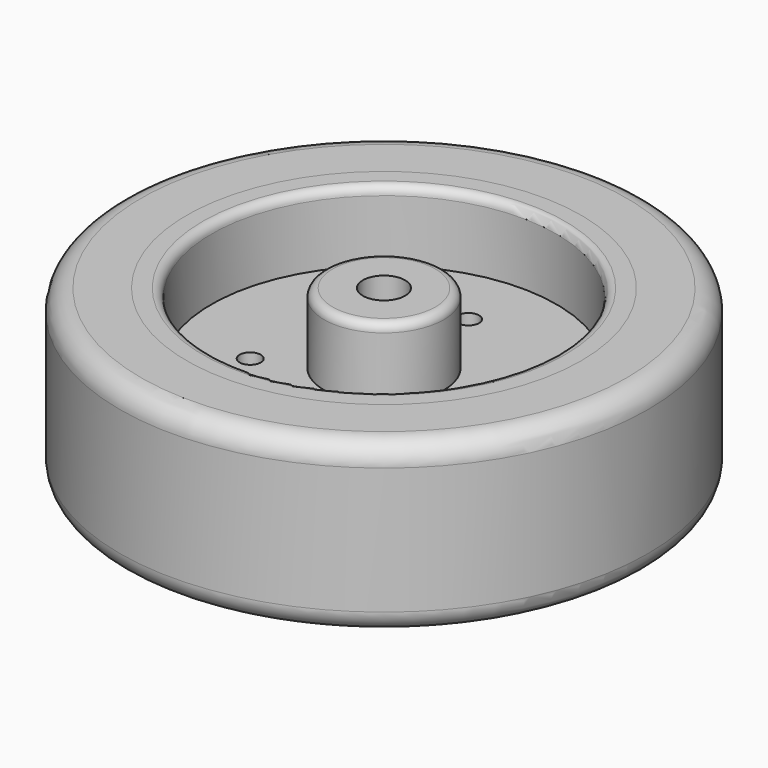
from build123d import *

# Parameters (mm, degrees)
SKETCH_R           = 28
SKETCH_R_2         = 3
PAD_DEPTH          = 12
SKETCH001_R        = 24.5
SKETCH001_R_2      = 8.5
POCKET_DEPTH       = 10
FILLET_R           = 1.2
SKETCH003_R        = 1.5
POCKET001_DEPTH    = 2
POLARPATTERN_COUNT = 3
SKETCH002_R        = 37.5
SKETCH002_R_2      = 28
PAD001_DEPTH       = 12
FILLET001_R        = 3


with BuildPart() as body:
    # Sketch → Pad (new body, symmetric)
    with BuildSketch(Plane.XY):
        Circle(SKETCH_R)
        Circle(SKETCH_R_2, mode=Mode.SUBTRACT)
    extrude(amount=PAD_DEPTH, both=True)

    # Sketch001 (on Face4 of Pad) → Pocket (cut)
    with BuildSketch(Plane.XY.offset(12)):
        Circle(SKETCH001_R)
        Circle(SKETCH001_R_2, mode=Mode.SUBTRACT)
    pocket = extrude(amount=-POCKET_DEPTH, mode=Mode.SUBTRACT)

    # Mirrored: Pocket across XY
    add(pocket.mirror(Plane.XY), mode=Mode.SUBTRACT)

    # Fillet
    fillet_edges = [body.edges().sort_by_distance(p)[0] for p in [
        (-8.5, 0, 12),
        (-8.5, 0, -12),
        (-24.5, 0, -12),
        (-24.5, 0, 12),
    ]]
    fillet(fillet_edges, radius=FILLET_R)

    # Sketch003 → Pocket001 (cut, symmetric)
    with BuildSketch(Plane.XY):
        with Locations((0, 15)):
            Circle(SKETCH003_R)
    pocket001 = extrude(amount=POCKET001_DEPTH, both=True, mode=Mode.SUBTRACT)

    # PolarPattern: Pocket001 ×3 about axis
    polarpattern_axis = Axis((0, 0, 0), (0, 0, 1))
    for i in range(1, POLARPATTERN_COUNT):
        add(pocket001.rotate(polarpattern_axis, i * 360 / POLARPATTERN_COUNT), mode=Mode.SUBTRACT)


with BuildPart() as body001:
    # Sketch002 → Pad001 (new body, symmetric)
    with BuildSketch(Plane.XY):
        Circle(SKETCH002_R)
        Circle(SKETCH002_R_2, mode=Mode.SUBTRACT)
    extrude(amount=PAD001_DEPTH, both=True)

    # Fillet001
    fillet001_edges = [body001.edges().sort_by_distance(p)[0] for p in [
        (-37.5, 0, -12),
        (-37.5, 0, 12),
    ]]
    fillet(fillet001_edges, radius=FILLET001_R)


solid = Compound([body.part, body001.part])
